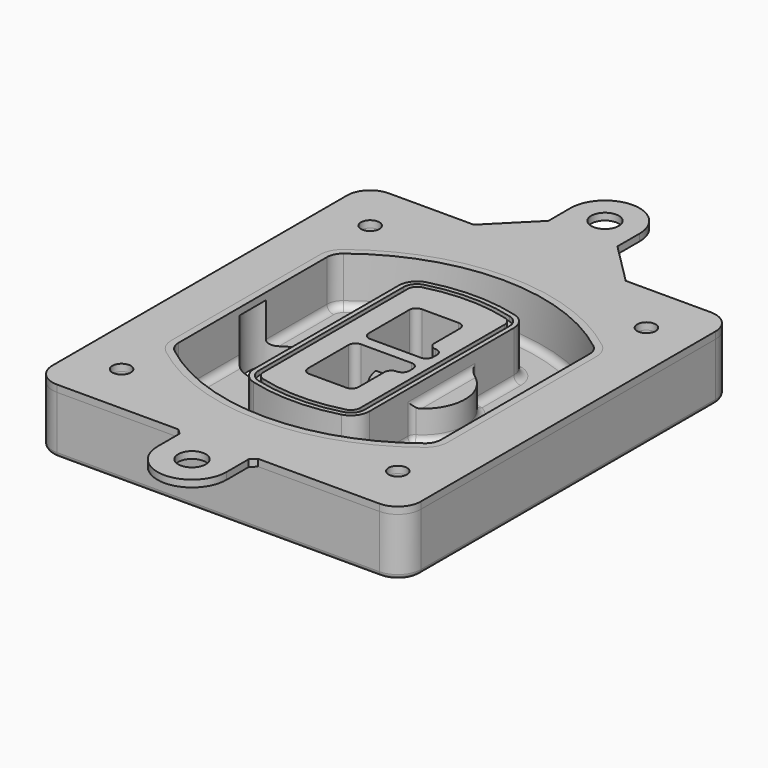
from build123d import *

# Parameters (mm, degrees)
F0_R      = 4
F1_DEPTH  = 25
F2_DEPTH  = 3
F3_DEPTH  = 18
F5_DEPTH  = 21
F6_DEPTH  = 2
F8_DEPTH  = 20
F9_DEPTH  = 16
F10_DEPTH = 25
F7_R      = 6
F7_R_2    = 4
F11_DEPTH = 6
F13_DEPTH = 9
F14_R     = 3
F15_R     = 2
F16_R     = 4
F16_R_2   = 6
F17_DEPTH = 3


with BuildPart() as f1:
    # F0 (on Top) → F1 (new body)
    with BuildSketch(Plane.XY):
        with BuildLine():
            ThreePointArc((-80, -80), (-77.0710678119, -87.0710678119), (-70, -90))
            Line((-70, -90), (70, -90))
            ThreePointArc((70, -90), (77.0710678119, -87.0710678119), (80, -80))
            Line((80, -80), (80, 80))
            ThreePointArc((80, 80), (77.0710678119, 87.0710678119), (70, 90))
            Line((70, 90), (-70, 90))
            ThreePointArc((-70, 90), (-77.0710678119, 87.0710678119), (-80, 80))
            Line((-80, 80), (-80, -80))
        make_face()
        with Locations((-60, -67.5)):
            Circle(F0_R, mode=Mode.SUBTRACT)
        with Locations((60, -67.5)):
            Circle(F0_R, mode=Mode.SUBTRACT)
        with Locations((-60, 67.5)):
            Circle(F0_R, mode=Mode.SUBTRACT)
        with BuildLine():
            ThreePointArc((-64, 40.2934422872), (-62.5820384798, 46.4328484224), (-58.6153846154, 51.3286200352))
            ThreePointArc((-58.6153846154, 51.3286200352), (0, 71.5), (58.6153846154, 51.3286200352))
            ThreePointArc((58.6153846154, 51.3286200352), (62.5820384798, 46.4328484224), (64, 40.2934422872))
            Line((64, 40.2934422872), (64, -40.2934422872))
            ThreePointArc((64, -40.2934422872), (62.5820384798, -46.4328484224), (58.6153846154, -51.3286200352))
            ThreePointArc((58.6153846154, -51.3286200352), (0, -71.5), (-58.6153846154, -51.3286200352))
            ThreePointArc((-58.6153846154, -51.3286200352), (-62.5820384798, -46.4328484224), (-64, -40.2934422872))
            Line((-64, -40.2934422872), (-64, 40.2934422872))
        make_face(mode=Mode.SUBTRACT)
        with Locations((60, 67.5)):
            Circle(F0_R, mode=Mode.SUBTRACT)
        with BuildLine():
            ThreePointArc((58.6153846154, 51.3286200352), (0, 71.5), (-58.6153846154, 51.3286200352))
            ThreePointArc((-58.6153846154, 51.3286200352), (-62.5820384798, 46.4328484224), (-64, 40.2934422872))
            Line((-64, 40.2934422872), (-64, -40.2934422872))
            ThreePointArc((-64, -40.2934422872), (-62.5820384798, -46.4328484224), (-58.6153846154, -51.3286200352))
            ThreePointArc((-58.6153846154, -51.3286200352), (0, -71.5), (58.6153846154, -51.3286200352))
            ThreePointArc((58.6153846154, -51.3286200352), (62.5820384798, -46.4328484224), (64, -40.2934422872))
            Line((64, -40.2934422872), (64, 40.2934422872))
            ThreePointArc((64, 40.2934422872), (62.5820384798, 46.4328484224), (58.6153846154, 51.3286200352))
        make_face()
        with BuildLine():
            Line((-60, -40.2934422872), (-60, 40.2934422872))
            ThreePointArc((-60, 40.2934422872), (-58.9871703427, 44.6787323838), (-56.1538461538, 48.1757121072))
            ThreePointArc((-56.1538461538, 48.1757121072), (0, 67.5), (56.1538461538, 48.1757121072))
            ThreePointArc((56.1538461538, 48.1757121072), (58.9871703427, 44.6787323838), (60, 40.2934422872))
            Line((60, 40.2934422872), (60, -40.2934422872))
            ThreePointArc((60, -40.2934422872), (58.9871703427, -44.6787323838), (56.1538461538, -48.1757121072))
            ThreePointArc((56.1538461538, -48.1757121072), (0, -67.5), (-56.1538461538, -48.1757121072))
            ThreePointArc((-56.1538461538, -48.1757121072), (-58.9871703427, -44.6787323838), (-60, -40.2934422872))
        make_face(mode=Mode.SUBTRACT)
        with BuildLine():
            ThreePointArc((-56.1538461538, 48.1757121072), (-58.9871703427, 44.6787323838), (-60, 40.2934422872))
            Line((-60, 40.2934422872), (-60, -40.2934422872))
            ThreePointArc((-60, -40.2934422872), (-58.9871703427, -44.6787323838), (-56.1538461538, -48.1757121072))
            ThreePointArc((-56.1538461538, -48.1757121072), (0, -67.5), (56.1538461538, -48.1757121072))
            ThreePointArc((56.1538461538, -48.1757121072), (58.9871703427, -44.6787323838), (60, -40.2934422872))
            Line((60, -40.2934422872), (60, 40.2934422872))
            ThreePointArc((60, 40.2934422872), (58.9871703427, 44.6787323838), (56.1538461538, 48.1757121072))
            ThreePointArc((56.1538461538, 48.1757121072), (0, 67.5), (-56.1538461538, 48.1757121072))
        make_face()
        with BuildLine():
            ThreePointArc((54.3076923077, 45.8110311612), (56.2910192399, 43.3631453548), (57, 40.2934422872))
            Line((57, 40.2934422872), (57, -40.2934422872))
            ThreePointArc((57, -40.2934422872), (56.2910192399, -43.3631453548), (54.3076923077, -45.8110311612))
            ThreePointArc((54.3076923077, -45.8110311612), (0, -64.5), (-54.3076923077, -45.8110311612))
            ThreePointArc((-54.3076923077, -45.8110311612), (-56.2910192399, -43.3631453548), (-57, -40.2934422872))
            Line((-57, -40.2934422872), (-57, 40.2934422872))
            ThreePointArc((-57, 40.2934422872), (-56.2910192399, 43.3631453548), (-54.3076923077, 45.8110311612))
            ThreePointArc((-54.3076923077, 45.8110311612), (0, 64.5), (54.3076923077, 45.8110311612))
        make_face(mode=Mode.SUBTRACT)
        with BuildLine():
            Line((57, -40.2934422872), (57, 40.2934422872))
            ThreePointArc((57, 40.2934422872), (56.2910192399, 43.3631453548), (54.3076923077, 45.8110311612))
            ThreePointArc((54.3076923077, 45.8110311612), (0, 64.5), (-54.3076923077, 45.8110311612))
            ThreePointArc((-54.3076923077, 45.8110311612), (-56.2910192399, 43.3631453548), (-57, 40.2934422872))
            Line((-57, 40.2934422872), (-57, -40.2934422872))
            ThreePointArc((-57, -40.2934422872), (-56.2910192399, -43.3631453548), (-54.3076923077, -45.8110311612))
            ThreePointArc((-54.3076923077, -45.8110311612), (0, -64.5), (54.3076923077, -45.8110311612))
            ThreePointArc((54.3076923077, -45.8110311612), (56.2910192399, -43.3631453548), (57, -40.2934422872))
        make_face()
    extrude(amount=-F1_DEPTH)

    # F0 (on Top) → F2 (join)
    with BuildSketch(Plane.XY):
        with BuildLine():
            ThreePointArc((-56.1538461538, 48.1757121072), (-58.9871703427, 44.6787323838), (-60, 40.2934422872))
            Line((-60, 40.2934422872), (-60, -40.2934422872))
            ThreePointArc((-60, -40.2934422872), (-58.9871703427, -44.6787323838), (-56.1538461538, -48.1757121072))
            ThreePointArc((-56.1538461538, -48.1757121072), (0, -67.5), (56.1538461538, -48.1757121072))
            ThreePointArc((56.1538461538, -48.1757121072), (58.9871703427, -44.6787323838), (60, -40.2934422872))
            Line((60, -40.2934422872), (60, 40.2934422872))
            ThreePointArc((60, 40.2934422872), (58.9871703427, 44.6787323838), (56.1538461538, 48.1757121072))
            ThreePointArc((56.1538461538, 48.1757121072), (0, 67.5), (-56.1538461538, 48.1757121072))
        make_face()
        with BuildLine():
            ThreePointArc((54.3076923077, 45.8110311612), (56.2910192399, 43.3631453548), (57, 40.2934422872))
            Line((57, 40.2934422872), (57, -40.2934422872))
            ThreePointArc((57, -40.2934422872), (56.2910192399, -43.3631453548), (54.3076923077, -45.8110311612))
            ThreePointArc((54.3076923077, -45.8110311612), (0, -64.5), (-54.3076923077, -45.8110311612))
            ThreePointArc((-54.3076923077, -45.8110311612), (-56.2910192399, -43.3631453548), (-57, -40.2934422872))
            Line((-57, -40.2934422872), (-57, 40.2934422872))
            ThreePointArc((-57, 40.2934422872), (-56.2910192399, 43.3631453548), (-54.3076923077, 45.8110311612))
            ThreePointArc((-54.3076923077, 45.8110311612), (0, 64.5), (54.3076923077, 45.8110311612))
        make_face(mode=Mode.SUBTRACT)
    extrude(amount=F2_DEPTH)

    # F0 (on Top) → F3 (cut)
    with BuildSketch(Plane.XY):
        with BuildLine():
            Line((57, -40.2934422872), (57, 40.2934422872))
            ThreePointArc((57, 40.2934422872), (56.2910192399, 43.3631453548), (54.3076923077, 45.8110311612))
            ThreePointArc((54.3076923077, 45.8110311612), (0, 64.5), (-54.3076923077, 45.8110311612))
            ThreePointArc((-54.3076923077, 45.8110311612), (-56.2910192399, 43.3631453548), (-57, 40.2934422872))
            Line((-57, 40.2934422872), (-57, -40.2934422872))
            ThreePointArc((-57, -40.2934422872), (-56.2910192399, -43.3631453548), (-54.3076923077, -45.8110311612))
            ThreePointArc((-54.3076923077, -45.8110311612), (0, -64.5), (54.3076923077, -45.8110311612))
            ThreePointArc((54.3076923077, -45.8110311612), (56.2910192399, -43.3631453548), (57, -40.2934422872))
        make_face()
    extrude(amount=-F3_DEPTH, mode=Mode.SUBTRACT)

    # F4 (on face) → F5 (join, through all)
    with BuildSketch(Plane.XY.offset(3)):
        with BuildLine():
            ThreePointArc((-25, -39.2465276821), (-23.3511545998, -44.1109737193), (-19.0842911877, -46.9702398883))
            ThreePointArc((-19.0842911877, -46.9702398883), (0, -49.5), (19.0842911877, -46.9702398883))
            ThreePointArc((19.0842911877, -46.9702398883), (23.3511545998, -44.1109737193), (25, -39.2465276821))
            Line((25, -39.2465276821), (25, 39.2465276821))
            ThreePointArc((25, 39.2465276821), (23.3511545998, 44.1109737193), (19.0842911877, 46.9702398883))
            ThreePointArc((19.0842911877, 46.9702398883), (0, 49.5), (-19.0842911877, 46.9702398883))
            ThreePointArc((-19.0842911877, 46.9702398883), (-23.3511545998, 44.1109737193), (-25, 39.2465276821))
            Line((-25, 39.2465276821), (-25, -39.2465276821))
        make_face()
        with BuildLine():
            ThreePointArc((18.5632183908, 45.0393118368), (21.7633659499, 42.89486221), (23, 39.2465276821))
            Line((23, 39.2465276821), (23, -39.2465276821))
            ThreePointArc((23, -39.2465276821), (21.7633659499, -42.89486221), (18.5632183908, -45.0393118368))
            ThreePointArc((18.5632183908, -45.0393118368), (0, -47.5), (-18.5632183908, -45.0393118368))
            ThreePointArc((-18.5632183908, -45.0393118368), (-21.7633659499, -42.89486221), (-23, -39.2465276821))
            Line((-23, -39.2465276821), (-23, 39.2465276821))
            ThreePointArc((-23, 39.2465276821), (-21.7633659499, 42.89486221), (-18.5632183908, 45.0393118368))
            ThreePointArc((-18.5632183908, 45.0393118368), (0, 47.5), (18.5632183908, 45.0393118368))
        make_face(mode=Mode.SUBTRACT)
        with BuildLine():
            Line((23, -39.2465276821), (23, 39.2465276821))
            ThreePointArc((23, 39.2465276821), (21.7633659499, 42.89486221), (18.5632183908, 45.0393118368))
            ThreePointArc((18.5632183908, 45.0393118368), (0, 47.5), (-18.5632183908, 45.0393118368))
            ThreePointArc((-18.5632183908, 45.0393118368), (-21.7633659499, 42.89486221), (-23, 39.2465276821))
            Line((-23, 39.2465276821), (-23, -39.2465276821))
            ThreePointArc((-23, -39.2465276821), (-21.7633659499, -42.89486221), (-18.5632183908, -45.0393118368))
            ThreePointArc((-18.5632183908, -45.0393118368), (0, -47.5), (18.5632183908, -45.0393118368))
            ThreePointArc((18.5632183908, -45.0393118368), (21.7633659499, -42.89486221), (23, -39.2465276821))
        make_face()
        with BuildLine():
            ThreePointArc((18.0421455939, 43.1083837852), (20.1755772999, 41.6787507007), (21, 39.2465276821))
            Line((21, 39.2465276821), (21, -39.2465276821))
            ThreePointArc((21, -39.2465276821), (20.1755772999, -41.6787507007), (18.0421455939, -43.1083837852))
            ThreePointArc((18.0421455939, -43.1083837852), (0, -45.5), (-18.0421455939, -43.1083837852))
            ThreePointArc((-18.0421455939, -43.1083837852), (-20.1755772999, -41.6787507007), (-21, -39.2465276821))
            Line((-21, -39.2465276821), (-21, 39.2465276821))
            ThreePointArc((-21, 39.2465276821), (-20.1755772999, 41.6787507007), (-18.0421455939, 43.1083837852))
            ThreePointArc((-18.0421455939, 43.1083837852), (0, 45.5), (18.0421455939, 43.1083837852))
        make_face(mode=Mode.SUBTRACT)
        with BuildLine():
            Line((21, -39.2465276821), (21, 39.2465276821))
            ThreePointArc((21, 39.2465276821), (20.1755772999, 41.6787507007), (18.0421455939, 43.1083837852))
            ThreePointArc((18.0421455939, 43.1083837852), (0, 45.5), (-18.0421455939, 43.1083837852))
            ThreePointArc((-18.0421455939, 43.1083837852), (-20.1755772999, 41.6787507007), (-21, 39.2465276821))
            Line((-21, 39.2465276821), (-21, -39.2465276821))
            ThreePointArc((-21, -39.2465276821), (-20.1755772999, -41.6787507007), (-18.0421455939, -43.1083837852))
            ThreePointArc((-18.0421455939, -43.1083837852), (0, -45.5), (18.0421455939, -43.1083837852))
            ThreePointArc((18.0421455939, -43.1083837852), (20.1755772999, -41.6787507007), (21, -39.2465276821))
        make_face()
        with BuildLine():
            Line((-8, -2.5), (14, -2.5))
            ThreePointArc((14, -2.5), (16.1213203436, -3.3786796564), (17, -5.5))
            Line((17, -5.5), (17, -7.5))
            ThreePointArc((17, -7.5), (16.1213203436, -9.6213203436), (14, -10.5))
            ThreePointArc((14, -10.5), (11.8786796564, -11.3786796564), (11, -13.5))
            Line((11, -13.5), (11, -27.5))
            ThreePointArc((11, -27.5), (10.1213203436, -29.6213203436), (8, -30.5))
            Line((8, -30.5), (-8, -30.5))
            ThreePointArc((-8, -30.5), (-10.1213203436, -29.6213203436), (-11, -27.5))
            Line((-11, -27.5), (-11, -5.5))
            ThreePointArc((-11, -5.5), (-10.1213203436, -3.3786796564), (-8, -2.5))
        make_face(mode=Mode.SUBTRACT)
        with BuildLine():
            ThreePointArc((-8, 2.5), (-10.1213203436, 3.3786796564), (-11, 5.5))
            Line((-11, 5.5), (-11, 27.5))
            ThreePointArc((-11, 27.5), (-10.1213203436, 29.6213203436), (-8, 30.5))
            Line((-8, 30.5), (8, 30.5))
            ThreePointArc((8, 30.5), (10.1213203436, 29.6213203436), (11, 27.5))
            Line((11, 27.5), (11, 13.5))
            ThreePointArc((11, 13.5), (11.8786796564, 11.3786796564), (14, 10.5))
            ThreePointArc((14, 10.5), (16.1213203436, 9.6213203436), (17, 7.5))
            Line((17, 7.5), (17, 5.5))
            ThreePointArc((17, 5.5), (16.1213203436, 3.3786796564), (14, 2.5))
            Line((14, 2.5), (-8, 2.5))
        make_face(mode=Mode.SUBTRACT)
    extrude(amount=-F5_DEPTH)

    # F4 (on face) → F6 (cut)
    with BuildSketch(Plane.XY.offset(3)):
        with BuildLine():
            Line((23, -39.2465276821), (23, 39.2465276821))
            ThreePointArc((23, 39.2465276821), (21.7633659499, 42.89486221), (18.5632183908, 45.0393118368))
            ThreePointArc((18.5632183908, 45.0393118368), (0, 47.5), (-18.5632183908, 45.0393118368))
            ThreePointArc((-18.5632183908, 45.0393118368), (-21.7633659499, 42.89486221), (-23, 39.2465276821))
            Line((-23, 39.2465276821), (-23, -39.2465276821))
            ThreePointArc((-23, -39.2465276821), (-21.7633659499, -42.89486221), (-18.5632183908, -45.0393118368))
            ThreePointArc((-18.5632183908, -45.0393118368), (0, -47.5), (18.5632183908, -45.0393118368))
            ThreePointArc((18.5632183908, -45.0393118368), (21.7633659499, -42.89486221), (23, -39.2465276821))
        make_face()
        with BuildLine():
            ThreePointArc((18.0421455939, 43.1083837852), (20.1755772999, 41.6787507007), (21, 39.2465276821))
            Line((21, 39.2465276821), (21, -39.2465276821))
            ThreePointArc((21, -39.2465276821), (20.1755772999, -41.6787507007), (18.0421455939, -43.1083837852))
            ThreePointArc((18.0421455939, -43.1083837852), (0, -45.5), (-18.0421455939, -43.1083837852))
            ThreePointArc((-18.0421455939, -43.1083837852), (-20.1755772999, -41.6787507007), (-21, -39.2465276821))
            Line((-21, -39.2465276821), (-21, 39.2465276821))
            ThreePointArc((-21, 39.2465276821), (-20.1755772999, 41.6787507007), (-18.0421455939, 43.1083837852))
            ThreePointArc((-18.0421455939, 43.1083837852), (0, 45.5), (18.0421455939, 43.1083837852))
        make_face(mode=Mode.SUBTRACT)
    extrude(amount=-F6_DEPTH, mode=Mode.SUBTRACT)

    # F7 (on face) → F8 (join)
    with BuildSketch(Plane(origin=(0, 0, -25), x_dir=(1, 0, 0), z_dir=(0, 0, -1))):
        with BuildLine():
            ThreePointArc((3.28842436, 0), (16.7567035675, 13.4682792075), (30.224982775, 0))
            Line((30.224982775, 0), (35.224982775, 0))
            ThreePointArc((35.224982775, 0), (16.7567035675, 18.4682792075), (-1.71157564, 0))
            Line((-1.71157564, 0), (3.28842436, 0))
        make_face()
        with BuildLine():
            Line((3.28842436, 0), (30.224982775, 0))
            ThreePointArc((30.224982775, 0), (16.7567035675, 13.4682792075), (3.28842436, 0))
        make_face()
        with BuildLine():
            ThreePointArc((3.28842436, 0), (16.7567035675, -13.4682792075), (30.224982775, 0))
            Line((30.224982775, 0), (3.28842436, 0))
        make_face()
        with BuildLine():
            Line((35.224982775, 0), (30.224982775, 0))
            ThreePointArc((30.224982775, 0), (16.7567035675, -13.4682792075), (3.28842436, 0))
            Line((3.28842436, 0), (-1.71157564, 0))
            ThreePointArc((-1.71157564, 0), (16.7567035675, -18.4682792075), (35.224982775, 0))
        make_face()
    extrude(amount=-F8_DEPTH)

    # F7 (on face) → F9 (cut)
    with BuildSketch(Plane(origin=(0, 0, -25), x_dir=(1, 0, 0), z_dir=(0, 0, -1))):
        with BuildLine():
            Line((3.28842436, 0), (30.224982775, 0))
            ThreePointArc((30.224982775, 0), (16.7567035675, 13.4682792075), (3.28842436, 0))
        make_face()
        with BuildLine():
            ThreePointArc((3.28842436, 0), (16.7567035675, -13.4682792075), (30.224982775, 0))
            Line((30.224982775, 0), (3.28842436, 0))
        make_face()
    extrude(amount=-F9_DEPTH, mode=Mode.SUBTRACT)

    # F7 (on face) → F10 (cut)
    with BuildSketch(Plane(origin=(0, 0, -25), x_dir=(1, 0, 0), z_dir=(0, 0, -1))):
        with BuildLine():
            Line((-59.0318229325, 0), (-32.0952645175, 0))
            ThreePointArc((-32.0952645175, 0), (-45.563543725, 13.4682792075), (-59.0318229325, 0))
        make_face()
        with BuildLine():
            ThreePointArc((-59.0318229325, 0), (-45.563543725, -13.4682792075), (-32.0952645175, 0))
            Line((-32.0952645175, 0), (-59.0318229325, 0))
        make_face()
    extrude(amount=-F10_DEPTH, mode=Mode.SUBTRACT)

    # F7 (on face) → F11 (cut)
    with BuildSketch(Plane(origin=(0, 0, -25), x_dir=(1, 0, 0), z_dir=(0, 0, -1))):
        with Locations((60, -67.5)):
            Circle(F7_R)
        with Locations((60, -67.5)):
            Circle(F7_R_2, mode=Mode.SUBTRACT)
        with Locations((60, -67.5)):
            Circle(F7_R)
        with Locations((60, -67.5)):
            Circle(F7_R_2, mode=Mode.SUBTRACT)
        with Locations((-60, -67.5)):
            Circle(F7_R)
        with Locations((-60, -67.5)):
            Circle(F7_R_2, mode=Mode.SUBTRACT)
        with Locations((-60, -67.5)):
            Circle(F7_R)
        with Locations((-60, -67.5)):
            Circle(F7_R_2, mode=Mode.SUBTRACT)
        with Locations((-60, 67.5)):
            Circle(F7_R)
        with Locations((-60, 67.5)):
            Circle(F7_R_2, mode=Mode.SUBTRACT)
        with Locations((-60, 67.5)):
            Circle(F7_R)
        with Locations((-60, 67.5)):
            Circle(F7_R_2, mode=Mode.SUBTRACT)
        with Locations((60, 67.5)):
            Circle(F7_R)
        with Locations((60, 67.5)):
            Circle(F7_R_2, mode=Mode.SUBTRACT)
        with Locations((60, 67.5)):
            Circle(F7_R)
        with Locations((60, 67.5)):
            Circle(F7_R_2, mode=Mode.SUBTRACT)
    extrude(amount=-F11_DEPTH, mode=Mode.SUBTRACT)

    # F12 (on face) → F13 (cut, through all)
    with BuildSketch(Plane(origin=(0, 0, -9), x_dir=(1, 0, 0), z_dir=(0, 0, -1))):
        with BuildLine():
            Line((11, 13.5), (11, 17.5481537753))
            ThreePointArc((11, 17.5481537753), (2.5696536419, 11.8239143813), (-1.5415842455, 2.5))
            Line((-1.5415842455, 2.5), (3.5224848595, 2.5))
            ThreePointArc((3.5224848595, 2.5), (6.1857188154, 8.3455872281), (11.2536447004, 12.2927168648))
            ThreePointArc((11.2536447004, 12.2927168648), (11.0640958889, 12.8831798879), (11, 13.5))
        make_face()
        with BuildLine():
            ThreePointArc((11.2536447004, -12.2927168648), (6.1857188154, -8.3455872281), (3.5224848595, -2.5))
            Line((3.5224848595, -2.5), (-1.5415842455, -2.5))
            ThreePointArc((-1.5415842455, -2.5), (2.5696536419, -11.8239143813), (11, -17.5481537753))
            Line((11, -17.5481537753), (11, -13.5))
            ThreePointArc((11, -13.5), (11.0640958889, -12.8831798879), (11.2536447004, -12.2927168648))
        make_face()
        with BuildLine():
            ThreePointArc((11.2536447004, 12.2927168648), (6.1857188154, 8.3455872281), (3.5224848595, 2.5))
            Line((3.5224848595, 2.5), (14, 2.5))
            ThreePointArc((14, 2.5), (16.1213203436, 3.3786796564), (17, 5.5))
            Line((17, 5.5), (17, 7.5))
            ThreePointArc((17, 7.5), (16.1213203436, 9.6213203436), (14, 10.5))
            ThreePointArc((14, 10.5), (12.3601599782, 10.9878446101), (11.2536447004, 12.2927168648))
        make_face()
        with BuildLine():
            Line((14, -2.5), (3.5224848595, -2.5))
            ThreePointArc((3.5224848595, -2.5), (6.1857188154, -8.3455872281), (11.2536447004, -12.2927168648))
            ThreePointArc((11.2536447004, -12.2927168648), (12.3601599782, -10.9878446101), (14, -10.5))
            ThreePointArc((14, -10.5), (16.1213203436, -9.6213203436), (17, -7.5))
            Line((17, -7.5), (17, -5.5))
            ThreePointArc((17, -5.5), (16.1213203436, -3.3786796564), (14, -2.5))
        make_face()
    extrude(amount=F13_DEPTH, mode=Mode.SUBTRACT)

    # F14
    f14_edges = [f1.edges().sort_by_distance(p)[0] for p in [
        (-57, -23.703476, -18),
        (-57, 23.703476, -18),
        (25, 0, -5),
        (25, 16.526506, -11.5),
        (25, -16.526506, -11.5),
        (25, -27.886517, -18),
        (35.224983, 0, -18),
    ]]
    fillet(f14_edges, radius=F14_R)

    # F15
    f15_edges = [f1.edges().sort_by_distance(p)[0] for p in [
        (0, -90, -25),
    ]]
    fillet(f15_edges, radius=F15_R)


with BuildPart() as f17:
    # F16 (on face) → F17 (new body, through all)
    with BuildSketch(Plane.XY):
        with BuildLine():
            Line((33, 90), (-33, 90))
            Line((-33, 90), (-70, 90))
            ThreePointArc((-70, 90), (-77.0710678119, 87.0710678119), (-80, 80))
            Line((-80, 80), (-80, -80))
            ThreePointArc((-80, -80), (-77.0710678119, -87.0710678119), (-70, -90))
            Line((-70, -90), (-17.25, -90))
            Line((-17.25, -90), (17.25, -90))
            Line((17.25, -90), (70, -90))
            ThreePointArc((70, -90), (77.0710678119, -87.0710678119), (80, -80))
            Line((80, -80), (80, 80))
            ThreePointArc((80, 80), (77.0710678119, 87.0710678119), (70, 90))
            Line((70, 90), (33, 90))
        make_face()
        with Locations((-60, -67.5)):
            Circle(F16_R, mode=Mode.SUBTRACT)
        with Locations((60, -67.5)):
            Circle(F16_R, mode=Mode.SUBTRACT)
        with BuildLine():
            ThreePointArc((-60, 40.2934422872), (-58.9871703427, 44.6787323838), (-56.1538461538, 48.1757121072))
            ThreePointArc((-56.1538461538, 48.1757121072), (0, 67.5), (56.1538461538, 48.1757121072))
            ThreePointArc((56.1538461538, 48.1757121072), (58.9871703427, 44.6787323838), (60, 40.2934422872))
            Line((60, 40.2934422872), (60, -40.2934422872))
            ThreePointArc((60, -40.2934422872), (58.9871703427, -44.6787323838), (56.1538461538, -48.1757121072))
            ThreePointArc((56.1538461538, -48.1757121072), (0, -67.5), (-56.1538461538, -48.1757121072))
            ThreePointArc((-56.1538461538, -48.1757121072), (-58.9871703427, -44.6787323838), (-60, -40.2934422872))
            Line((-60, -40.2934422872), (-60, 40.2934422872))
        make_face(mode=Mode.SUBTRACT)
        with Locations((-60, 67.5)):
            Circle(F16_R, mode=Mode.SUBTRACT)
        with Locations((60, 67.5)):
            Circle(F16_R, mode=Mode.SUBTRACT)
        with BuildLine():
            Line((33, 90), (-33, 90))
            Line((-33, 90), (-70, 90))
            ThreePointArc((-70, 90), (-77.0710678119, 87.0710678119), (-80, 80))
            Line((-80, 80), (-80, -80))
            ThreePointArc((-80, -80), (-77.0710678119, -87.0710678119), (-70, -90))
            Line((-70, -90), (-17.25, -90))
            Line((-17.25, -90), (17.25, -90))
            Line((17.25, -90), (70, -90))
            ThreePointArc((70, -90), (77.0710678119, -87.0710678119), (80, -80))
            Line((80, -80), (80, 80))
            ThreePointArc((80, 80), (77.0710678119, 87.0710678119), (70, 90))
            Line((70, 90), (33, 90))
        make_face()
        with Locations((-60, -67.5)):
            Circle(F16_R, mode=Mode.SUBTRACT)
        with Locations((60, -67.5)):
            Circle(F16_R, mode=Mode.SUBTRACT)
        with BuildLine():
            ThreePointArc((-60, 40.2934422872), (-58.9871703427, 44.6787323838), (-56.1538461538, 48.1757121072))
            ThreePointArc((-56.1538461538, 48.1757121072), (0, 67.5), (56.1538461538, 48.1757121072))
            ThreePointArc((56.1538461538, 48.1757121072), (58.9871703427, 44.6787323838), (60, 40.2934422872))
            Line((60, 40.2934422872), (60, -40.2934422872))
            ThreePointArc((60, -40.2934422872), (58.9871703427, -44.6787323838), (56.1538461538, -48.1757121072))
            ThreePointArc((56.1538461538, -48.1757121072), (0, -67.5), (-56.1538461538, -48.1757121072))
            ThreePointArc((-56.1538461538, -48.1757121072), (-58.9871703427, -44.6787323838), (-60, -40.2934422872))
            Line((-60, -40.2934422872), (-60, 40.2934422872))
        make_face(mode=Mode.SUBTRACT)
        with Locations((-60, 67.5)):
            Circle(F16_R, mode=Mode.SUBTRACT)
        with Locations((60, 67.5)):
            Circle(F16_R, mode=Mode.SUBTRACT)
        with BuildLine():
            Line((17.25, -90), (-17.25, -90))
            Line((-17.25, -90), (-15, -92.25))
            Line((-15, -92.25), (-15, -104.25))
            ThreePointArc((-15, -104.25), (0, -119.25), (15, -104.25))
            Line((15, -104.25), (15, -92.25))
            Line((15, -92.25), (17.25, -90))
        make_face()
        with Locations((0, -104.25)):
            Circle(F16_R_2, mode=Mode.SUBTRACT)
        with BuildLine():
            Line((-15, 108), (-33, 90))
            Line((-33, 90), (33, 90))
            Line((33, 90), (15, 108))
            Line((15, 108), (15, 120))
            ThreePointArc((15, 120), (0, 135), (-15, 120))
            Line((-15, 120), (-15, 108))
        make_face()
        with Locations((0, 120)):
            Circle(F16_R_2, mode=Mode.SUBTRACT)
    extrude(amount=F17_DEPTH)


solid = Compound([f1.part, f17.part])
